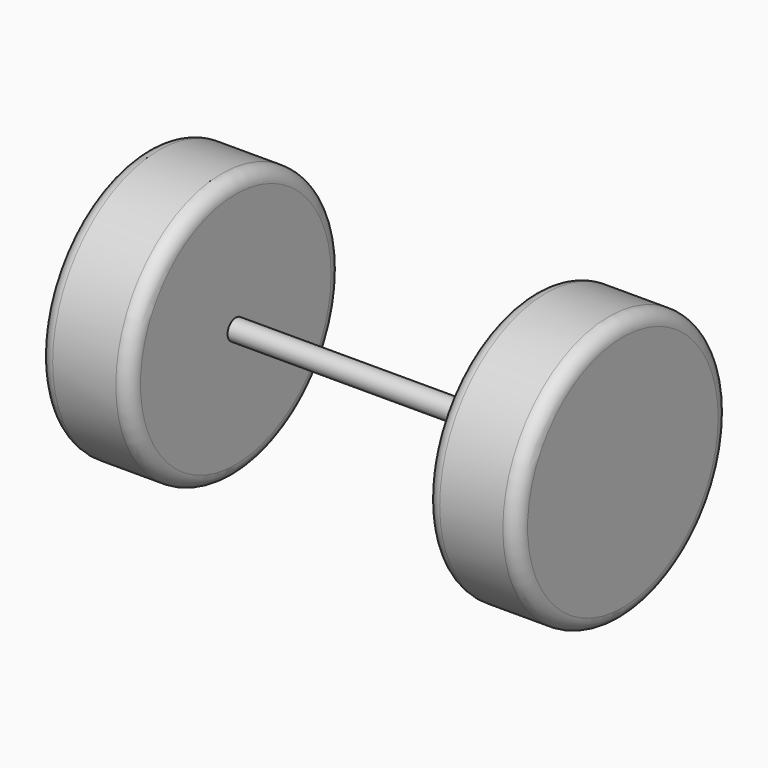
from build123d import *

# Parameters (mm, degrees)
F0_R     = 19.35
F1_DEPTH = 13.2
F2_R     = 1.5
F3_DEPTH = 43.2
F4_R     = 19.35
F5_DEPTH = 13.2
F6_R     = 2


with BuildPart() as f1:
    # F0 (on Right) → F1 (new body)
    with BuildSketch(Plane.YZ):
        Circle(F0_R)
    extrude(amount=F1_DEPTH)

    # F2 (on face) → F3 (join)
    with BuildSketch(Plane.YZ.offset(13.2)):
        Circle(F2_R)
    extrude(amount=F3_DEPTH)

    # F4 (on face) → F5 (join)
    with BuildSketch(Plane.YZ.offset(56.4)):
        Circle(F4_R)
    extrude(amount=F5_DEPTH)

    # F6
    f6_edges = [f1.edges().sort_by_distance(p)[0] for p in [
        (0, -19.35, 0),
        (13.2, -19.35, 0),
        (56.4, -19.35, 0),
        (69.6, -19.35, 0),
    ]]
    fillet(f6_edges, radius=F6_R)


solid = f1.part
